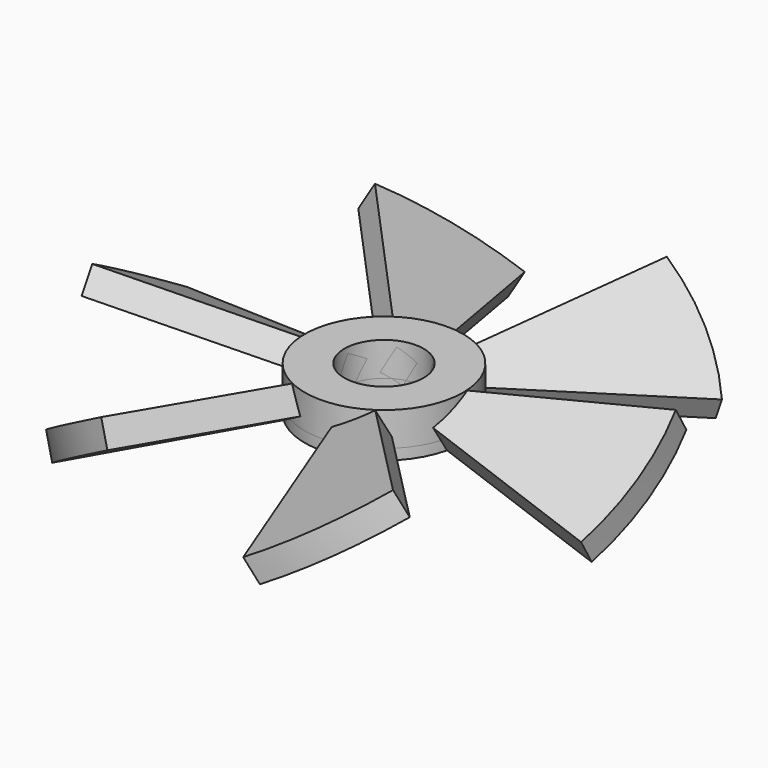
from build123d import *

# Parameters (mm, degrees)
F1_DEPTH      = 10
F3_ANGLE      = 30
F5_COUNT      = 6
F6_R          = 30
F6_R_2        = 15
F7_DEPTH      = 12.8
F7_DEPTH_BACK = 4
F8_R          = 15
F9_DEPTH      = 25
F9_DEPTH_BACK = 25


with BuildPart() as f1:
    # F0 (on Top) → F1 (new body)
    with BuildSketch(Plane.XY):
        with BuildLine():
            Line((96.5925826289, 25.8819045103), (0, 0))
            Line((0, 0), (96.5925826289, -25.8819045103))
            ThreePointArc((96.5925826289, -25.8819045103), (100, 0), (96.5925826289, 25.8819045103))
        make_face()
    extrude(amount=F1_DEPTH)


with BuildPart() as f1_1:
    # F3: moved
    add(f1.part.rotate(Axis((55.2566722035, 0, 0), (1, 0, 0)), F3_ANGLE))

    # F5: F1 ×6 about axis
    f5_axis = Axis((0, 0, 15.24533052), (0, 0, 1))


with BuildPart() as f1_2:
    add(f1_1.part)
    for i in range(1, F5_COUNT):
        add(f1_1.part.rotate(f5_axis, i * 360 / F5_COUNT))

    # F6 (on Top) → F7 (join, two sides)
    with BuildSketch(Plane.XY) as f7_sk:
        Circle(F6_R)
        Circle(F6_R_2, mode=Mode.SUBTRACT)
    extrude(amount=F7_DEPTH)
    extrude(f7_sk.sketch, amount=-F7_DEPTH_BACK)

    # F8 (on Top) → F9 (cut, two sides)
    with BuildSketch(Plane.XY) as f9_sk:
        Circle(F8_R)
    extrude(amount=-F9_DEPTH, mode=Mode.SUBTRACT)
    extrude(f9_sk.sketch, amount=F9_DEPTH_BACK, mode=Mode.SUBTRACT)


solid = f1_2.part
